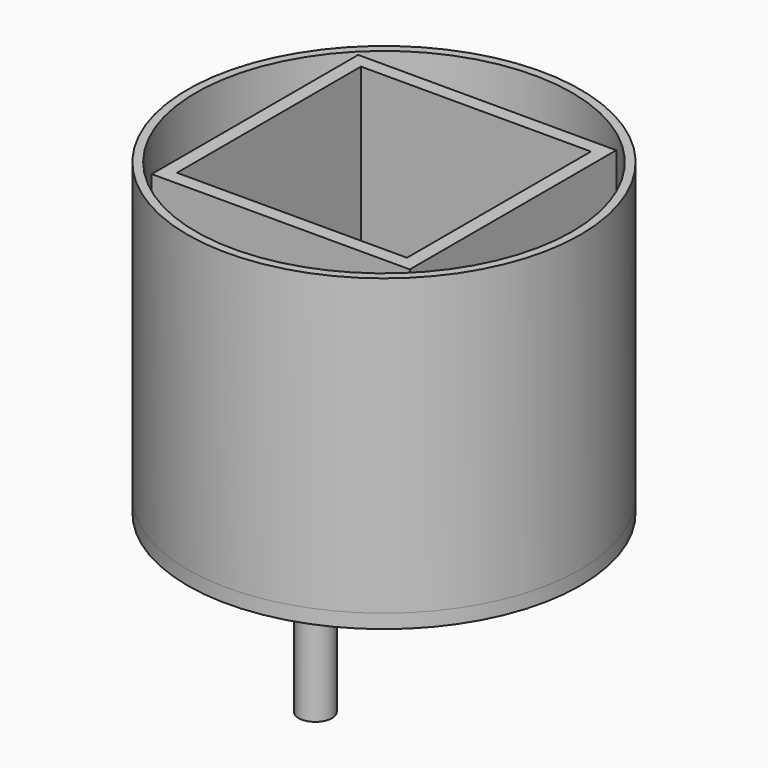
from build123d import *

# Parameters (mm, degrees)
F0_R      = 88.9
F0_R_2    = 85.09
F1_DEPTH  = 133.35
F0_W      = 116.7433295739
F0_H      = 116.7433295739
F0_W_2    = 104.0433295739
F0_H_2    = 104.0433295739
F2_DEPTH  = 133.35
F0_R_3    = 12.7
F0_R_4    = 2.54
F3_DEPTH  = 12.7
F4_DEPTH  = 6.35
F5_DEPTH  = 38.1
F6_DEPTH  = 6.35
F7_DEPTH  = 31.75
F8_DEPTH  = 12.7
F9_R      = 7.5822179206
F9_R_2    = 6.878807978
F10_DEPTH = 76.2
F11_DEPTH = 76.201
F12_DEPTH = 12.7
F13_W     = 103.5729488625
F13_H     = 0.508
F14_DEPTH = 76.2


with BuildPart() as f1:
    # F0 (on Top) → F1 (new body)
    with BuildSketch(Plane.XY):
        Circle(F0_R)
        Circle(F0_R_2, mode=Mode.SUBTRACT)
    extrude(amount=F1_DEPTH)

    # F9 (on face) → F12 (cut)
    with BuildSketch(Plane.XY.offset(6.35)):
        with Locations((0, -38.8120859861)):
            Circle(F9_R_2)
    extrude(amount=-F12_DEPTH, mode=Mode.SUBTRACT)


with BuildPart() as f2:
    # F0 (on Top) → F2 (new body)
    with BuildSketch(Plane.XY):
        Rectangle(F0_W, F0_H)
        Rectangle(F0_W_2, F0_H_2, mode=Mode.SUBTRACT)
    extrude(amount=F2_DEPTH)


with BuildPart() as f3:
    # F0 (on Top) → F3 (new body)
    with BuildSketch(Plane.XY):
        Circle(F0_R_3)
        Circle(F0_R_4, mode=Mode.SUBTRACT)
    extrude(amount=F3_DEPTH)

    # F0 (on Top) → F5 (join)
    with BuildSketch(Plane.XY):
        Circle(F0_R_4)
    extrude(amount=F5_DEPTH)

    # F0 (on Top) → F7 (join)
    with BuildSketch(Plane.XY):
        Circle(F0_R_4)
    extrude(amount=-F7_DEPTH)


with BuildPart() as f4:
    # F0 (on Top) → F4 (new body)
    with BuildSketch(Plane.XY):
        Rectangle(F0_W_2, F0_H_2)
        Circle(F0_R_3, mode=Mode.SUBTRACT)
    extrude(amount=F4_DEPTH)

    # F9 (on face) → F10 (join)
    with BuildSketch(Plane.XY.offset(6.35)):
        with Locations((0, -38.8120859861)):
            Circle(F9_R)
        with Locations((0, -38.8120859861)):
            Circle(F9_R_2, mode=Mode.SUBTRACT)
    extrude(amount=-F10_DEPTH)


with BuildPart() as f6:
    # F0 (on Top) → F6 (new body)
    with BuildSketch(Plane.XY):
        Circle(F0_R)
        Circle(F0_R_2, mode=Mode.SUBTRACT)
        Circle(F0_R_2)
        Rectangle(F0_W, F0_H, mode=Mode.SUBTRACT)
        Rectangle(F0_W, F0_H)
        Rectangle(F0_W_2, F0_H_2, mode=Mode.SUBTRACT)
        Rectangle(F0_W_2, F0_H_2)
        Circle(F0_R_3, mode=Mode.SUBTRACT)
    extrude(amount=-F6_DEPTH)


with BuildPart() as f8:
    # F0 (on Top) → F8 (new body)
    with BuildSketch(Plane.XY):
        Circle(F0_R_3)
        Circle(F0_R_4, mode=Mode.SUBTRACT)
    extrude(amount=-F8_DEPTH)


with BuildPart() as f11_tool:
    # F9 (on face) → F11 (new body, through all)
    with BuildSketch(Plane.XY.offset(6.35)):
        with Locations((0, -38.8120859861)):
            Circle(F9_R_2)
    extrude(amount=-F11_DEPTH)


with BuildPart() as f4_1:
    add(f4.part)

    # F11: cut by f11_tool
    add(f11_tool.part, mode=Mode.SUBTRACT)


with BuildPart() as f6_1:
    add(f6.part)

    # F11: cut by f11_tool
    add(f11_tool.part, mode=Mode.SUBTRACT)


with BuildPart() as f14:
    # F13 (on face) → F14 (new body)
    with BuildSketch(Plane.XY.offset(6.35)):
        with Locations((-0.1688851044, 0.0075928365)):
            Rectangle(F13_W, F13_H)
    extrude(amount=F14_DEPTH)


solid = Compound([f1.part, f2.part, f3.part, f8.part, f4_1.part, f6_1.part, f14.part])
